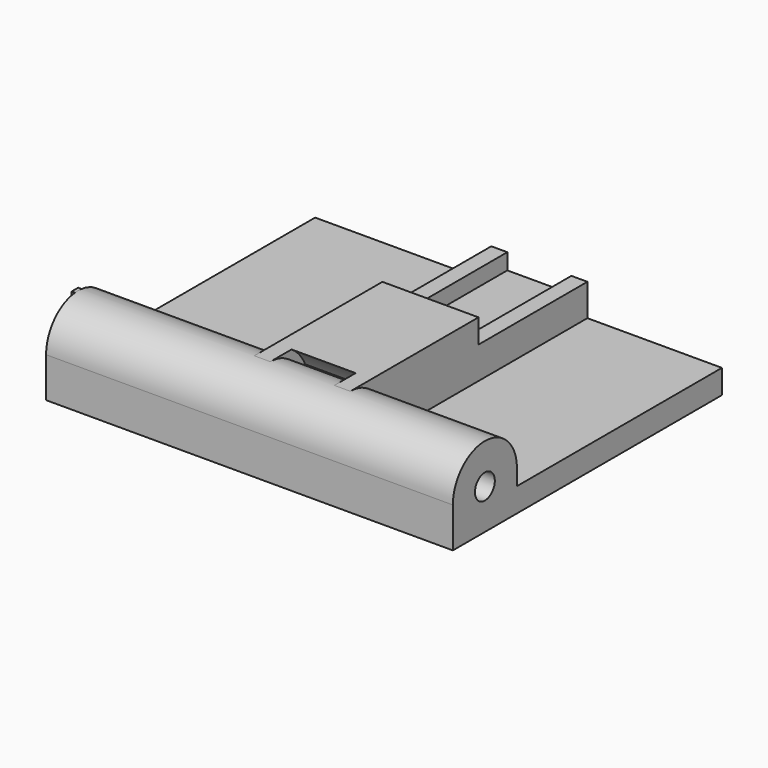
from build123d import *

# Parameters (mm, degrees)
CYLINDER004_R           = 1.5
CYLINDER004_DEPTH       = 4
CYLINDER005_R           = 1.5
CYLINDER005_DEPTH       = 4
CYLINDER006_R           = 1.5
CYLINDER006_DEPTH       = 4
CYLINDER002_R           = 1.25
CYLINDER002_DEPTH       = 10
CYLINDER002_PITCH_ANGLE = 90
CYLINDER001_R           = 1.55
CYLINDER001_DEPTH       = 50.8
CYLINDER001_PITCH_ANGLE = 90
CYLINDER003_R           = 6
CYLINDER003_DEPTH       = 8
CYLINDER003_PITCH_ANGLE = 90
BOX005_W                = 12
BOX005_H                = 18
BOX005_DEPTH            = 3
BOX004_W                = 8
BOX004_H                = 50
BOX004_DEPTH            = 2.5
BOX003_W                = 12
BOX003_H                = 37
BOX003_DEPTH            = 10
BOX002_W                = 0.4
BOX002_H                = 1
BOX002_DEPTH            = 10
BOX001_W                = 50.8
BOX001_H                = 10
BOX001_DEPTH            = 2
CYLINDER_R              = 5
CYLINDER_DEPTH          = 50.8
CYLINDER_PITCH_ANGLE    = 90
BOX_W                   = 50.8
BOX_H                   = 42
BOX_DEPTH               = 3


with BuildPart() as cylinder004:
    # Cylinder004 → Cylinder004 (new body)
    with BuildSketch(Plane(origin=(12, 10, -4), x_dir=(1, 0, 0), z_dir=(0, 0, 1))):
        Circle(CYLINDER004_R)
    extrude(amount=CYLINDER004_DEPTH)


with BuildPart() as cylinder005:
    # Cylinder005 → Cylinder005 (new body)
    with BuildSketch(Plane(origin=(24, 10, -4), x_dir=(1, 0, 0), z_dir=(0, 0, 1))):
        Circle(CYLINDER005_R)
    extrude(amount=CYLINDER005_DEPTH)


with BuildPart() as cylinder006:
    # Cylinder006 → Cylinder006 (new body)
    with BuildSketch(Plane(origin=(36, 10, -4), x_dir=(1, 0, 0), z_dir=(0, 0, 1))):
        Circle(CYLINDER006_R)
    extrude(amount=CYLINDER006_DEPTH)


with BuildPart() as cylinder002:
    # Cylinder002 → Cylinder002 (new body)
    with BuildSketch(Plane.XY):
        Circle(CYLINDER002_R)
    extrude(amount=CYLINDER002_DEPTH)


with BuildPart() as cylinder002_1:
    # Cylinder002 pitch: moved
    add(cylinder002.part.rotate(Axis((0, 0, 0), (0, 1, 0)), CYLINDER002_PITCH_ANGLE))


with BuildPart() as cylinder002_2:
    # Cylinder002 placement: moved
    add(cylinder002_1.part.moved(Location((-1, 5, 5))))


with BuildPart() as cylinder001:
    # Cylinder001 → Cylinder001 (new body)
    with BuildSketch(Plane.XY):
        Circle(CYLINDER001_R)
    extrude(amount=CYLINDER001_DEPTH)


with BuildPart() as cylinder001_1:
    # Cylinder001 pitch: moved
    add(cylinder001.part.rotate(Axis((0, 0, 0), (0, 1, 0)), CYLINDER001_PITCH_ANGLE))


with BuildPart() as cylinder001_2:
    # Cylinder001 placement: moved
    add(cylinder001_1.part.moved(Location((3, 5, 5))))


with BuildPart() as cylinder003:
    # Cylinder003 → Cylinder003 (new body)
    with BuildSketch(Plane.XY):
        Circle(CYLINDER003_R)
    extrude(amount=CYLINDER003_DEPTH)


with BuildPart() as cylinder003_1:
    # Cylinder003 pitch: moved
    add(cylinder003.part.rotate(Axis((0, 0, 0), (0, 1, 0)), CYLINDER003_PITCH_ANGLE))


with BuildPart() as cylinder003_2:
    # Cylinder003 placement: moved
    add(cylinder003_1.part.moved(Location((24, 5, 5))))


with BuildPart() as cube005:
    # Box005 → Box005 (new body)
    with BuildSketch(Plane(origin=(22, 25, 7), x_dir=(1, 0, 0), z_dir=(0, 0, 1))):
        with Locations((6, 9)):
            Rectangle(BOX005_W, BOX005_H)
    extrude(amount=BOX005_DEPTH)


with BuildPart() as cube004:
    # Box004 → Box004 (new body)
    with BuildSketch(Plane(origin=(24, 10, 5), x_dir=(1, 0, 0), z_dir=(0, 0, 1))):
        with Locations((4, 25)):
            Rectangle(BOX004_W, BOX004_H)
    extrude(amount=BOX004_DEPTH)


with BuildPart() as cut002:
    # Box003 → Box003 (new body)
    with BuildSketch(Plane(origin=(22, 5, 0), x_dir=(1, 0, 0), z_dir=(0, 0, 1))):
        with Locations((6, 18.5)):
            Rectangle(BOX003_W, BOX003_H)
    extrude(amount=BOX003_DEPTH)

    # Cut: cut Cube004
    add(cube004.part, mode=Mode.SUBTRACT)

    # Cut001: cut Cube005
    add(cube005.part, mode=Mode.SUBTRACT)

    # Cut002: cut Cylinder003
    add(cylinder003_2.part, mode=Mode.SUBTRACT)


with BuildPart() as cube002:
    # Box002 → Box002 (new body)
    with BuildSketch(Plane(origin=(-0.4, 4.5, 0), x_dir=(1, 0, 0), z_dir=(0, 0, 1))):
        with Locations((0.2, 0.5)):
            Rectangle(BOX002_W, BOX002_H)
    extrude(amount=BOX002_DEPTH)


with BuildPart() as cube001:
    # Box001 → Box001 (new body)
    with BuildSketch(Plane.XY.offset(3)):
        with Locations((25.4, 5)):
            Rectangle(BOX001_W, BOX001_H)
    extrude(amount=BOX001_DEPTH)


with BuildPart() as cylinder:
    # Cylinder → Cylinder (new body)
    with BuildSketch(Plane.XY):
        Circle(CYLINDER_R)
    extrude(amount=CYLINDER_DEPTH)


with BuildPart() as cylinder_1:
    # Cylinder pitch: moved
    add(cylinder.part.rotate(Axis((0, 0, 0), (0, 1, 0)), CYLINDER_PITCH_ANGLE))


with BuildPart() as cylinder_2:
    # Cylinder placement: moved
    add(cylinder_1.part.moved(Location((0, 5, 5))))


with BuildPart() as fusion003:
    # Box → Box (new body)
    with BuildSketch(Plane.XY):
        with Locations((25.4, 21)):
            Rectangle(BOX_W, BOX_H)
    extrude(amount=BOX_DEPTH)

    # Fusion: union Cube001, Cylinder
    add(cube001.part)
    add(cylinder_2.part)

    # Fusion001: union Cube002
    add(cube002.part)

    # Fusion002: union Cut002
    add(cut002.part)

    # Cut003: cut Cylinder001
    add(cylinder001_2.part, mode=Mode.SUBTRACT)

    # Cut004: cut Cylinder002
    add(cylinder002_2.part, mode=Mode.SUBTRACT)

    # Fusion003: union Cylinder004, Cylinder005, Cylinder006
    add(cylinder004.part)
    add(cylinder005.part)
    add(cylinder006.part)


solid = fusion003.part
